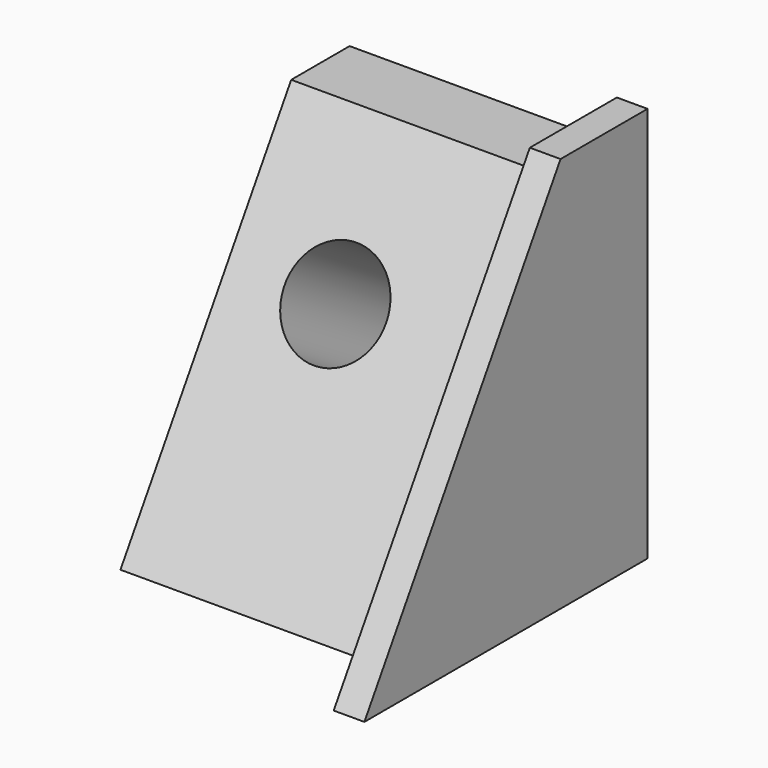
from build123d import *

# Parameters (mm, degrees)
F1_DEPTH = 6.35
F3_DEPTH = 50.8
F4_R     = 10.515242
F5_DEPTH = 83.82


with BuildPart() as f1:
    # F0 (on Right) → F1 (new body)
    with BuildSketch(Plane.YZ):
        Polygon((41.387662, -35.488307), (41.387662, 46.365242), (18.896371, 46.365242), (-31.801209, -35.488307), align=None)
    extrude(amount=F1_DEPTH)

    # F2 (on face) → F3 (join)
    with BuildSketch(Plane(origin=(0, 0, 0), x_dir=(0, -1, 0), z_dir=(-1, 0, 0))):
        Polygon((-35.810284, -30.553309), (23.417182, -29.785352), (-20.715904, 41.469525), (-35.810284, 41.469525), align=None)
    extrude(amount=F3_DEPTH)

    # F4 (on face) → F5 (cut)
    with BuildSketch(Plane(origin=(0, -3.591343, 2.224368), x_dir=(1, 0, 0), z_dir=(0, -0.850143, 0.526552))):
        with Locations((-28.393257, 14.638352)):
            Circle(F4_R)
    extrude(amount=-F5_DEPTH, mode=Mode.SUBTRACT)


solid = f1.part
